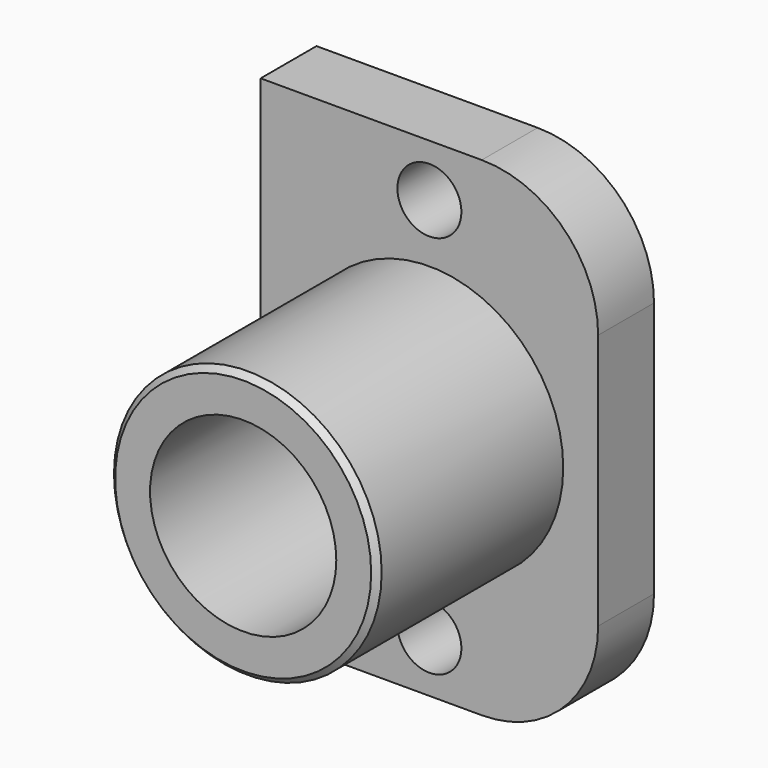
from build123d import *

# Parameters (mm, degrees)
F0_R     = 2.75
F1_DEPTH = 6
F2_R     = 11.5
F3_DEPTH = 20
F4_R     = 8
F5_DEPTH = 26.001
F6_SIZE  = 0.5


with BuildPart() as f1:
    # F0 (on Front) → F1 (new body)
    with BuildSketch(Plane.XZ):
        with BuildLine():
            Line((0, 42), (0, 0))
            Line((0, 0), (19, 0))
            ThreePointArc((19, 0), (26.071068, 2.928932), (29, 10))
            Line((29, 10), (29, 32))
            ThreePointArc((29, 32), (26.071068, 39.071068), (19, 42))
            Line((19, 42), (0, 42))
        make_face()
        with Locations((14.5, 4.5)):
            Circle(F0_R, mode=Mode.SUBTRACT)
        with Locations((14.5, 37.5)):
            Circle(F0_R, mode=Mode.SUBTRACT)
    extrude(amount=F1_DEPTH)

    # F2 (on face) → F3 (join)
    with BuildSketch(Plane.XZ.offset(6)):
        with Locations((14.5, 21)):
            Circle(F2_R)
    extrude(amount=F3_DEPTH)

    # F4 (on face) → F5 (cut, through all)
    with BuildSketch(Plane.XZ.offset(26)):
        with Locations((14.5, 21)):
            Circle(F4_R)
    extrude(amount=-F5_DEPTH, mode=Mode.SUBTRACT)

    # F6
    f6_edges = [f1.edges().sort_by_distance(p)[0] for p in [
        (3, -26, 21),
    ]]
    chamfer(f6_edges, length=F6_SIZE)


solid = f1.part
